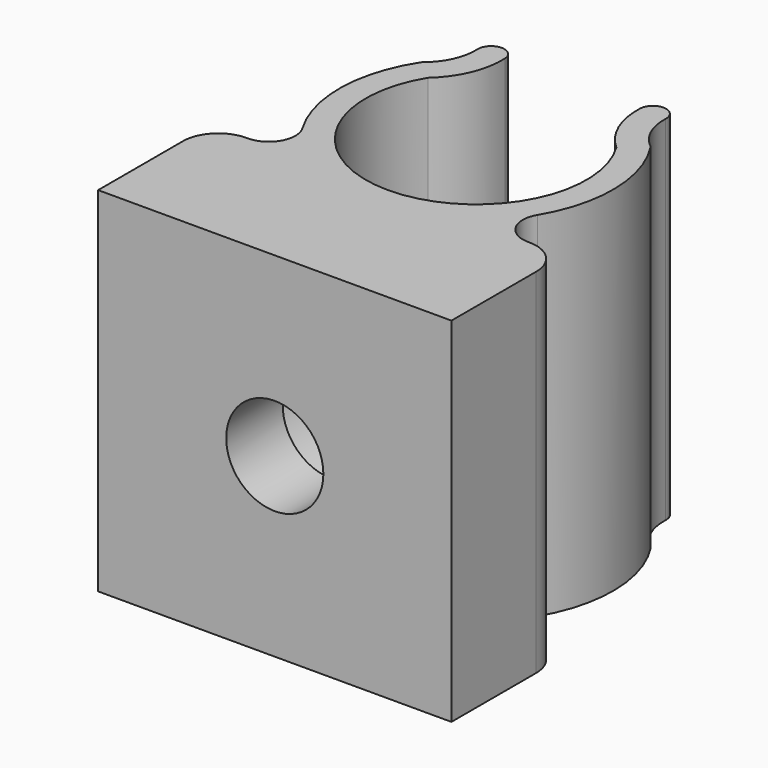
from build123d import *

# Parameters (mm, degrees)
PAD_DEPTH       = 20
FILLET_R        = 1.5
FILLET001_R     = 2
SKETCH001_R     = 2.75
POCKET_DEPTH    = 21.784467
SKETCH002_R     = 5
POCKET001_DEPTH = 6


with BuildPart() as part:
    # Sketch → Pad (new body)
    with BuildSketch(Plane.XY):
        with BuildLine():
            Line((-10, 0), (10, 0))
            Line((10, 0), (10, 8))
            Line((10, 8), (4.582576, 8))
            ThreePointArc((4.582576, 8), (7.626385, 12.87132), (6.480741, 18.5))
            ThreePointArc((5.328024, 21), (5.60069, 19.609971), (6.480741, 18.5))
            ThreePointArc((5.328024, 21), (4.612239, 21.78272), (3.829519, 21.066935))
            ThreePointArc((3.829519, 21.066935), (4.180655, 19.112817), (5.338539, 17.5))
            ThreePointArc((-5.338539, 17.5), (0, 8), (5.338539, 17.5))
            ThreePointArc((-5.338539, 17.5), (-4.180655, 19.112817), (-3.829519, 21.066935))
            ThreePointArc((-3.829519, 21.066935), (-4.612239, 21.78272), (-5.328024, 21))
            ThreePointArc((-6.480741, 18.5), (-5.60069, 19.609971), (-5.328024, 21))
            ThreePointArc((-6.480741, 18.5), (-7.626385, 12.87132), (-4.582576, 8))
            Line((-4.582576, 8), (-10, 8))
            Line((-10, 8), (-10, 0))
        make_face()
    extrude(amount=PAD_DEPTH)

    # Fillet
    fillet_edges = [part.edges().sort_by_distance(p)[0] for p in [
        (4.582576, 8, 10),
        (-4.582576, 8, 10),
    ]]
    fillet(fillet_edges, radius=FILLET_R)

    # Fillet001
    fillet001_edges = [part.edges().sort_by_distance(p)[0] for p in [
        (10, 8, 10),
        (-10, 8, 10),
    ]]
    fillet(fillet001_edges, radius=FILLET001_R)

    # Sketch001 (on Face7 of Fillet001) → Pocket (cut, through all)
    with BuildSketch(Plane.XZ):
        with Locations((0, 10)):
            Circle(SKETCH001_R)
    extrude(amount=-POCKET_DEPTH, mode=Mode.SUBTRACT)

    # Sketch002 (on DatumPlane) → Pocket001 (cut)
    with BuildSketch(Plane.XZ.offset(-10)):
        with Locations((0, 10)):
            Circle(SKETCH002_R)
    extrude(amount=POCKET001_DEPTH, mode=Mode.SUBTRACT)


solid = part.part
